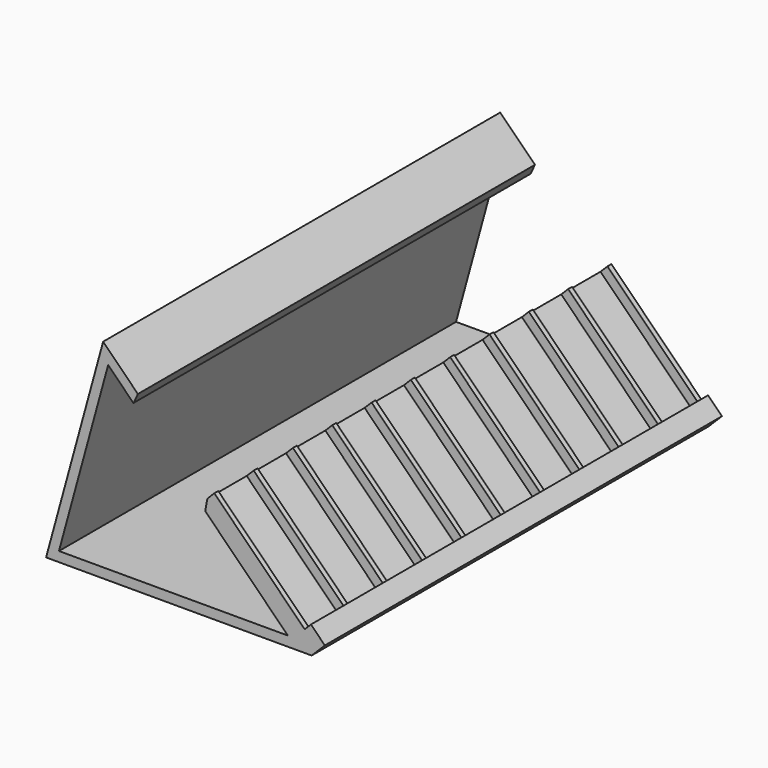
from build123d import *

# Parameters (mm, degrees)
F1_DEPTH = 101
F2_W     = 28
F2_H     = 1
F3_DEPTH = 2


with BuildPart() as f1:
    # F0 (on Front) → F1 (new body)
    with BuildSketch(Plane.XZ):
        Polygon((19.7989898732, 1.4142135624), (0, 21.2132034356), (-0.4420594911, 18.826835802), (16.3847763109, 2), (-30.2015638745, 2), (-20.19282931, 38.5776056209), (-15.051559592, 33.4363359028), (-14.1421356237, 35.3553390593), (-21.2132034356, 42.4264068712), (-32.8223461799, 0), (-9.7140957444, 0), (21.2132034356, 0), align=None)
        Polygon((21.0717820794, 2.6870057685), (19.7989898732, 1.4142135624), (21.2132034356, 0), (23.9002092041, 2.6870057685), (21.0717820794, 5.5154328933), (19.657568517, 4.1012193309), align=None)
    extrude(amount=F1_DEPTH)

    # F2 (on face) → F3 (join)
    with BuildSketch(Plane(origin=(10.6066017178, 0, 10.6066017178), x_dir=(0.7071067812, 0, -0.7071067812), z_dir=(0.7071067812, 0, 0.7071067812))):
        with Locations((-1, -100.5)):
            Rectangle(F2_W, F2_H)
        with Locations((-1, -90.5)):
            Rectangle(F2_W, F2_H)
        with Locations((-1, -80.5)):
            Rectangle(F2_W, F2_H)
        with Locations((-1, -70.5)):
            Rectangle(F2_W, F2_H)
        with Locations((-1, -60.5)):
            Rectangle(F2_W, F2_H)
        with Locations((-1, -50.5)):
            Rectangle(F2_W, F2_H)
        with Locations((-1, -40.5)):
            Rectangle(F2_W, F2_H)
        with Locations((-1, -30.5)):
            Rectangle(F2_W, F2_H)
        with Locations((-1, -20.5)):
            Rectangle(F2_W, F2_H)
        with Locations((-1, -0.5)):
            Rectangle(F2_W, F2_H)
        with Locations((-1, -10.5)):
            Rectangle(F2_W, F2_H)
    extrude(amount=F3_DEPTH)


solid = f1.part
